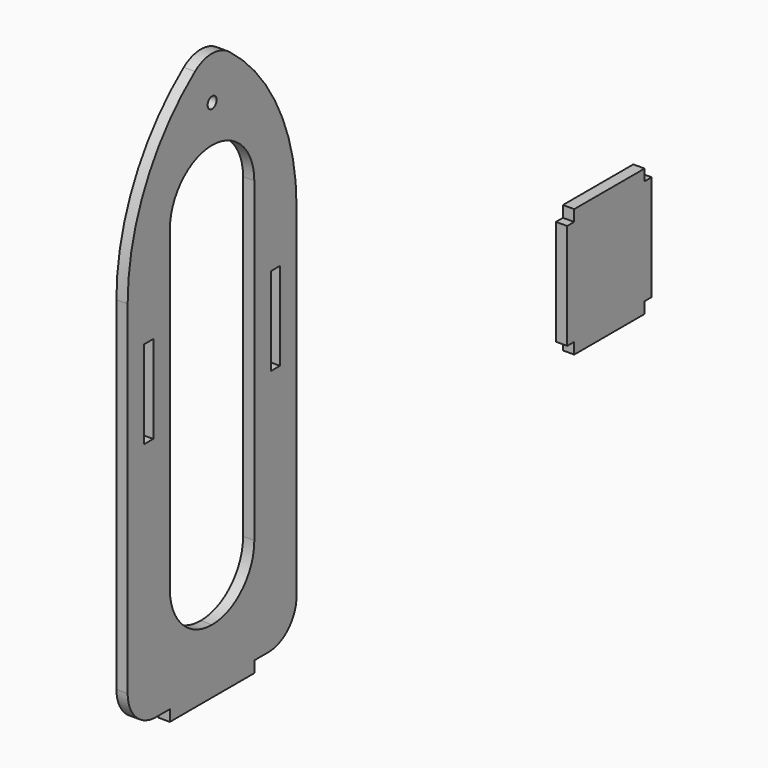
from build123d import *

# Parameters (mm, degrees)
F0_W     = 3.2
F0_H     = 25
F0_R     = 1.6
F1_DEPTH = 3.2
F2_R     = 10


with BuildPart() as f1:
    # F0 (on Right) → F1 (new body)
    with BuildSketch(Plane.YZ):
        with BuildLine():
            Line((-50.9, 73.971951), (-50.9, -33.502359))
            Line((-50.9, -33.502359), (-35.9, -33.502359))
            Line((-35.9, -33.502359), (-35.9, -36.702359))
            Line((-35.9, -36.702359), (-5.9, -36.702359))
            Line((-5.9, -36.702359), (-5.9, -33.502359))
            Line((-5.9, -33.502359), (9.1, -33.502359))
            Line((9.1, -33.502359), (9.1, 73.971951))
            ThreePointArc((9.1, 73.971951), (2.79314, 100.980084), (-14.822917, 122.401809))
            ThreePointArc((-14.822917, 122.401809), (-20.9, 124.460206), (-26.977083, 122.401809))
            ThreePointArc((-26.977083, 122.401809), (-44.59314, 100.980084), (-50.9, 73.971951))
        make_face()
        with BuildLine():
            Line((-35.9, -3.502359), (-35.9, 86.497641))
            ThreePointArc((-35.9, 86.497641), (-31.506602, 97.104243), (-20.9, 101.497641))
            ThreePointArc((-20.9, 101.497641), (-10.293398, 97.104243), (-5.9, 86.497641))
            Line((-5.9, 86.497641), (-5.9, -3.502359))
            ThreePointArc((-5.9, -3.502359), (-10.293398, -14.108961), (-20.9, -18.502359))
            ThreePointArc((-20.9, -18.502359), (-31.506602, -14.108961), (-35.9, -3.502359))
        make_face(mode=Mode.SUBTRACT)
        with Locations((-43.4, 48.997641)):
            Rectangle(F0_W, F0_H, mode=Mode.SUBTRACT)
        with Locations((1.6, 48.997641)):
            Rectangle(F0_W, F0_H, mode=Mode.SUBTRACT)
        with Locations((-20.9, 112.160236)):
            Circle(F0_R, mode=Mode.SUBTRACT)
        Polygon((107.742983, 30), (105.242983, 30), (105.242983, 0), (107.742983, 0), (107.742983, -3.2), (132.742983, -3.2), (132.742983, 0), (135.242983, 0), (135.242983, 30), (132.742983, 30), (132.742983, 33.2), (107.742983, 33.2), align=None)
    extrude(amount=F1_DEPTH)

    # F2
    f2_edges = [f1.edges().sort_by_distance(p)[0] for p in [
        (1.6, -50.9, -33.502359),
        (1.6, 9.1, -33.502359),
    ]]
    fillet(f2_edges, radius=F2_R)


solid = f1.part
